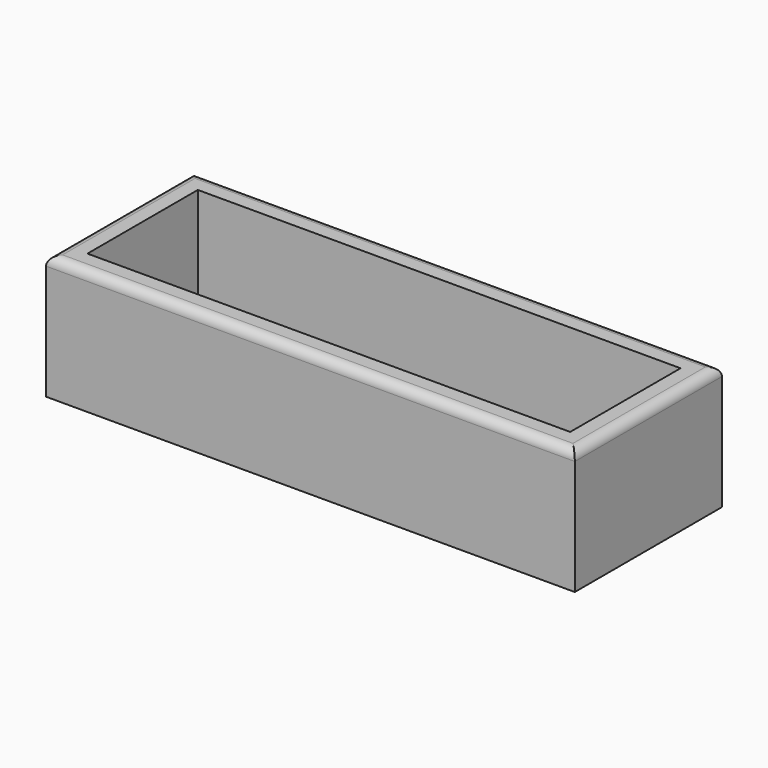
from build123d import *

# Parameters (mm, degrees)
F0_W     = 115
F0_H     = 40
F0_W_2   = 105
F0_H_2   = 30
F1_DEPTH = 5
F2_DEPTH = 22
F3_R     = 2
F5_DEPTH = 105


with BuildPart() as f1:
    # F0 (on Top) → F1 (new body)
    with BuildSketch(Plane.XY):
        Rectangle(F0_W, F0_H)
        Rectangle(F0_W_2, F0_H_2, mode=Mode.SUBTRACT)
        Rectangle(F0_W_2, F0_H_2)
    extrude(amount=-F1_DEPTH)

    # F0 (on Top) → F2 (join)
    with BuildSketch(Plane.XY):
        Rectangle(F0_W, F0_H)
        Rectangle(F0_W_2, F0_H_2, mode=Mode.SUBTRACT)
    extrude(amount=F2_DEPTH)

    # F3
    f3_edges = [f1.edges().sort_by_distance(p)[0] for p in [
        (0, 20, 22),
        (-57.5, 0, 22),
        (0, -20, 22),
        (57.5, 0, 22),
    ]]
    fillet(f3_edges, radius=F3_R)

    # F4 (on face) → F5 (join, through all)
    with BuildSketch(Plane(origin=(52.5, 0, 0), x_dir=(0, -1, 0), z_dir=(-1, 0, 0))):
        with BuildLine():
            Line((-15, 1.9643241272), (-15, 0))
            Line((-15, 0), (15, 0))
            Line((15, 0), (15, 1.9643241272))
            add(Edge.make_bspline(
                [(15, 1.9643241272), (9, 1), (0, 6), (-9, 1), (-15, 1.9643241272)],
                knots=[0, 0, 0, 0, 0.5, 1, 1, 1, 1], degree=3))
        make_face()
    extrude(amount=F5_DEPTH)


solid = f1.part
